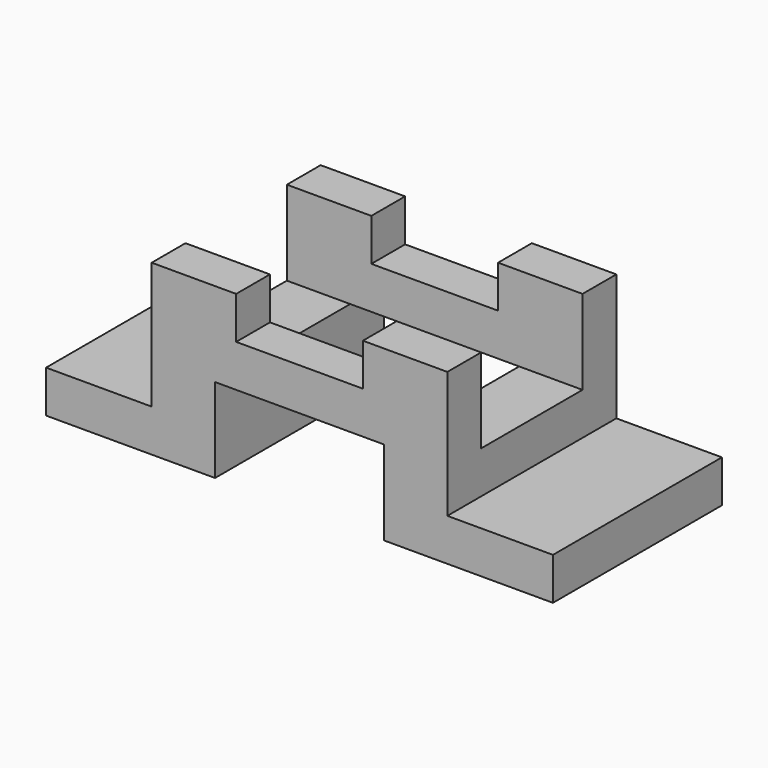
from build123d import *

# Parameters (mm, degrees)
F1_DEPTH = 25
F2_W     = 30
F2_H     = 20
F3_DEPTH = 95.001


with BuildPart() as f1:
    # F0 (on Front) → F1 (new body, symmetric)
    with BuildSketch(Plane.XZ):
        Polygon((0, 10), (0, 0), (40, 0), (40, 20), (80, 20), (80, 0), (120, 0), (120, 10), (95, 10), (95, 40), (75, 40), (75, 30), (45, 30), (45, 40), (25, 40), (25, 10), align=None)
    extrude(amount=F1_DEPTH, both=True)

    # F2 (on face) → F3 (cut, through all)
    with BuildSketch(Plane.YZ.offset(95)):
        with Locations((0, 30)):
            Rectangle(F2_W, F2_H)
    extrude(amount=-F3_DEPTH, mode=Mode.SUBTRACT)


solid = f1.part
